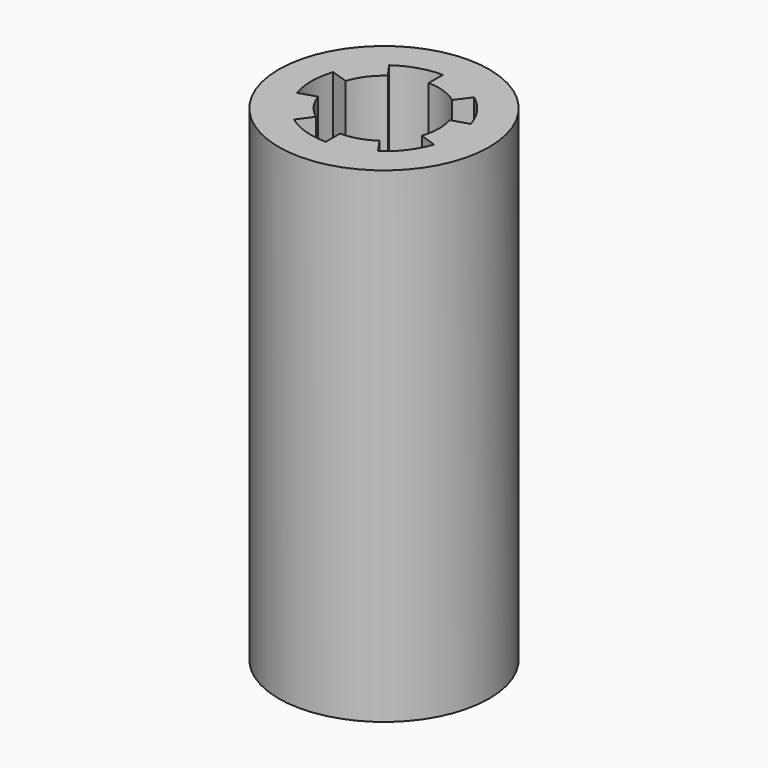
from build123d import *

# Parameters (mm, degrees)
F0_R     = 3.25
F1_DEPTH = 15


with BuildPart() as f1:
    # F0 (on Top) → F1 (new body)
    with BuildSketch(Plane.XY):
        Circle(F0_R)
        with BuildLine():
            ThreePointArc((1.623778, 0.503334), (1.680837, 0.254536), (1.7, 0))
            ThreePointArc((1.7, 0), (1.676957, -0.278955), (1.608452, -0.550348))
            Line((1.608452, -0.550348), (2.128833, -0.728401))
            ThreePointArc((2.128833, -0.728401), (1.798242, -1.352341), (1.290547, -1.843092))
            Line((1.290547, -1.843092), (0.97508, -1.392558))
            ThreePointArc((0.97508, -1.392558), (0.5112, -1.621319), (0, -1.7))
            Line((0, -1.7), (0, -2.25))
            ThreePointArc((0, -2.25), (-0.697363, -2.139202), (-1.326044, -1.81772))
            Line((-1.326044, -1.81772), (-1.0019, -1.373389))
            ThreePointArc((-1.0019, -1.373389), (-1.37823, -0.99523), (-1.618821, -0.519054))
            Line((-1.618821, -0.519054), (-2.142558, -0.686983))
            ThreePointArc((-2.142558, -0.686983), (-2.249974, 0.010908), (-2.135796, 0.707726))
            Line((-2.135796, 0.707726), (-1.613712, 0.534726))
            ThreePointArc((-1.613712, 0.534726), (-1.368515, 1.008547), (-0.988537, 1.383039))
            Line((-0.988537, 1.383039), (-1.308357, 1.830492))
            ThreePointArc((-1.308357, 1.830492), (-0.676588, 2.145863), (0.021816, 2.249894))
            Line((0.021816, 2.249894), (0.016483, 1.69992))
            ThreePointArc((0.016483, 1.69992), (0.542543, 1.611101), (1.01517, 1.363609))
            Line((1.01517, 1.363609), (1.343607, 1.804777))
            ThreePointArc((1.343607, 1.804777), (1.836814, 1.299467), (2.149118, 0.666177))
            Line((2.149118, 0.666177), (1.623778, 0.503334))
        make_face(mode=Mode.SUBTRACT)
    extrude(amount=F1_DEPTH)


solid = f1.part
